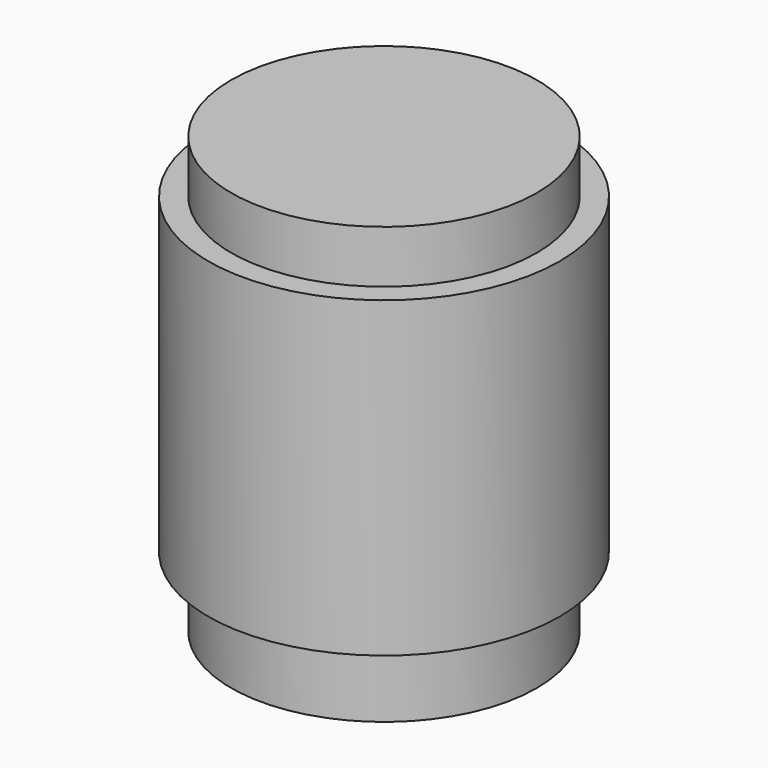
from build123d import *

# Parameters (mm, degrees)
F0_R     = 6.35
F1_DEPTH = 11.303
F2_R     = 5.5245
F3_DEPTH = 1.905
F4_R     = 5.5245
F5_DEPTH = 2.54
F6_R     = 3.175
F7_DEPTH = 6.604


with BuildPart() as f1:
    # F0 (on Top) → F1 (new body)
    with BuildSketch(Plane.XY):
        Circle(F0_R)
    extrude(amount=F1_DEPTH)

    # F4 (on face) → F5 (join)
    with BuildSketch(Plane(origin=(0, 0, 0), x_dir=(1, 0, 0), z_dir=(0, 0, -1))):
        Circle(F4_R)
    extrude(amount=F5_DEPTH)

    # F6 (on face) → F7 (cut)
    with BuildSketch(Plane(origin=(0, 0, -2.54), x_dir=(1, 0, 0), z_dir=(0, 0, -1))):
        Circle(F6_R)
    extrude(amount=-F7_DEPTH, mode=Mode.SUBTRACT)


with BuildPart() as f3:
    # F2 (on face) → F3 (new body)
    with BuildSketch(Plane.XY.offset(11.303)):
        Circle(F2_R)
    extrude(amount=F3_DEPTH)


solid = Compound([f1.part, f3.part])
